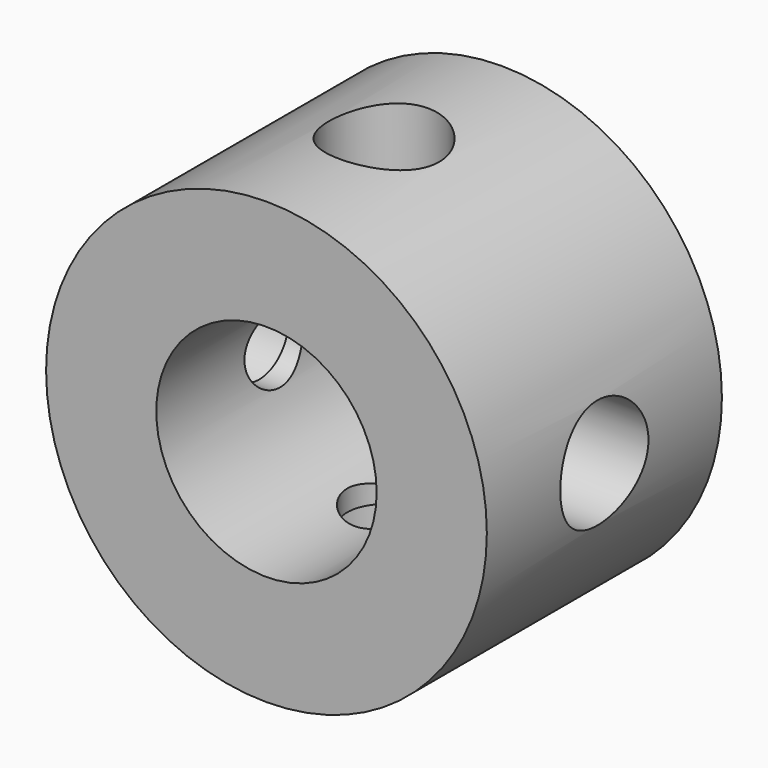
from build123d import *

# Parameters (mm, degrees)
F0_R      = 30
F0_R_2    = 15
F1_DEPTH  = 20
F3_R      = 7.5
F4_DEPTH  = 13
F5_R      = 5
F6_DEPTH  = 65.5
F8_R      = 7.5
F9_DEPTH  = 13
F12_R     = 7.5
F13_DEPTH = 13
F14_R     = 5
F15_DEPTH = 92
F16_R     = 7.5
F17_DEPTH = 13
F19_DEPTH = 15
F18_R     = 0.5
F20_DEPTH = 15
F21_DEPTH = 15
F22_DEPTH = 15


with BuildPart() as f1:
    # F0 (on Front) → F1 (new body, symmetric)
    with BuildSketch(Plane.XZ):
        Circle(F0_R)
        Circle(F0_R_2, mode=Mode.SUBTRACT)
    extrude(amount=F1_DEPTH, both=True)

    # F3 (on offset) → F4 (cut)
    with BuildSketch(Plane.XY.offset(30)):
        Circle(F3_R)
    extrude(amount=-F4_DEPTH, mode=Mode.SUBTRACT)

    # F5 (on offset) → F6 (cut)
    with BuildSketch(Plane.XY.offset(30)):
        Circle(F5_R)
    extrude(amount=-F6_DEPTH, mode=Mode.SUBTRACT)

    # F8 (on offset) → F9 (cut)
    with BuildSketch(Plane.XY.offset(-30)):
        Circle(F8_R)
    extrude(amount=F9_DEPTH, mode=Mode.SUBTRACT)

    # F12 (on offset) → F13 (cut)
    with BuildSketch(Plane.YZ.offset(30)):
        Circle(F12_R)
    extrude(amount=-F13_DEPTH, mode=Mode.SUBTRACT)

    # F14 (on offset) → F15 (cut)
    with BuildSketch(Plane.YZ.offset(30)):
        Circle(F14_R)
    extrude(amount=-F15_DEPTH, mode=Mode.SUBTRACT)

    # F16 (on offset) → F17 (cut)
    with BuildSketch(Plane.YZ.offset(-30)):
        Circle(F16_R)
    extrude(amount=F17_DEPTH, mode=Mode.SUBTRACT)

    # F18 (on Front) → F19 (cut, symmetric)
    with BuildSketch(Plane.XZ):
        with BuildLine():
            ThreePointArc((0, 15.5), (0.353553, 15.646447), (0.5, 16))
            ThreePointArc((0.5, 16), (-0.353553, 16.353553), (0, 15.5))
        make_face()
    extrude(amount=F19_DEPTH, both=True, mode=Mode.SUBTRACT)

    # F18 (on Front) → F20 (cut, symmetric)
    with BuildSketch(Plane.XZ):
        with Locations((16, 0)):
            Circle(F18_R)
    extrude(amount=F20_DEPTH, both=True, mode=Mode.SUBTRACT)

    # F18 (on Front) → F21 (cut, symmetric)
    with BuildSketch(Plane.XZ):
        with Locations((0, -16)):
            Circle(F18_R)
    extrude(amount=F21_DEPTH, both=True, mode=Mode.SUBTRACT)

    # F18 (on Front) → F22 (cut, symmetric)
    with BuildSketch(Plane.XZ):
        with Locations((-16, 0)):
            Circle(F18_R)
    extrude(amount=F22_DEPTH, both=True, mode=Mode.SUBTRACT)


solid = f1.part
